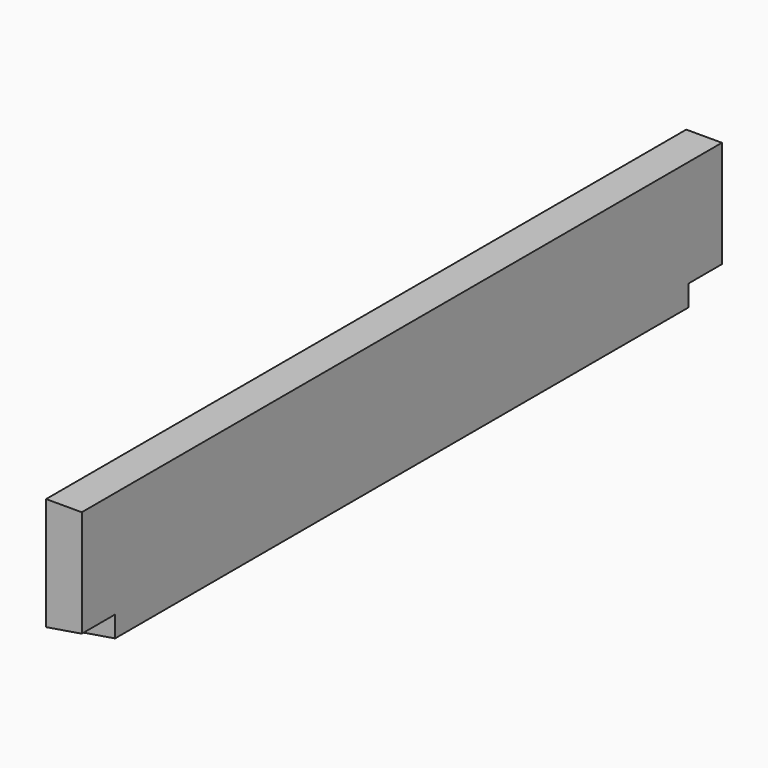
from build123d import *

# Parameters (mm, degrees)
F1_DEPTH = 854.075
F3_W     = 88.9
F3_H     = 44.45
F4_DEPTH = 127


with BuildPart() as f1:
    # F0 (on Front) → F1 (new body, symmetric)
    with BuildSketch(Plane.XZ):
        Polygon((76.2, 0), (0, 0), (0, -285.75), (76.2, -273.2717714572), align=None)
    extrude(amount=F1_DEPTH, both=True)

    # F3 (on face) → F4 (cut, symmetric)
    with BuildSketch(Plane(origin=(-45.571311316, 0, -7.4625884199), x_dir=(0, 1, 0), z_dir=(0.9868557164, 0, 0.1616038211))):
        with Locations((809.625, -259.7690209632)):
            Rectangle(F3_W, F3_H)
        with Locations((-809.625, -259.7690209632)):
            Rectangle(F3_W, F3_H)
    extrude(amount=F4_DEPTH, both=True, mode=Mode.SUBTRACT)


solid = f1.part
